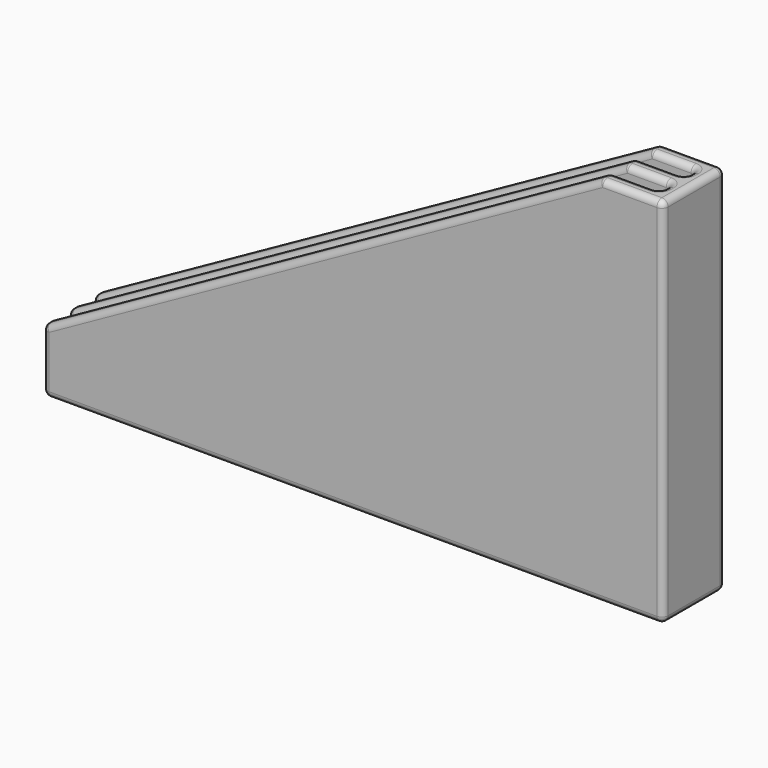
from build123d import *

# Parameters (mm, degrees)
SKETCH_W      = 100
SKETCH_H      = 12.5
PAD_DEPTH     = 60
SKETCH001_W   = 97.5
SKETCH001_H   = 2.5
POCKET_DEPTH  = 57.5
CHAMFER_SIZE2 = 90
CHAMFER_SIZE  = 50
FILLET_R      = 1


with BuildPart() as part:
    # Sketch (on XY_Plane of Origin) → Pad (new body)
    with BuildSketch(Plane.XY):
        Rectangle(SKETCH_W, SKETCH_H)
    extrude(amount=PAD_DEPTH)

    # Sketch001 (on Face6 of Pad) → Pocket (cut)
    with BuildSketch(Plane.XY.offset(60)):
        with Locations((-1.25, 2.5)):
            Rectangle(SKETCH001_W, SKETCH001_H)
        with Locations((-1.25, -2.5)):
            Rectangle(SKETCH001_W, SKETCH001_H)
    extrude(amount=-POCKET_DEPTH, mode=Mode.SUBTRACT)

    # Chamfer
    chamfer_edges = [part.edges().sort_by_distance(p)[0] for p in [
        (-50, 5, 60),
        (-50, 0, 60),
        (-50, -5, 60),
    ]]
    chamfer_side = part.faces().sort_by_distance((-50, 0, 29.222973))[0]
    chamfer(chamfer_edges, length=CHAMFER_SIZE, length2=CHAMFER_SIZE2, reference=chamfer_side)

    # Fillet
    fillet_edges = [part.edges().sort_by_distance(p)[0] for p in [
        (-50, -6.25, 5),
        (-50, -5, 10),
        (-50, 0, 0),
        (-50, -3.75, 6.25),
        (-50, 6.25, 5),
        (-50, -2.5, 2.5),
        (-50, 5, 10),
        (-50, -1.25, 6.25),
        (-50, 3.75, 6.25),
        (-50, 0, 10),
        (-50, 2.5, 2.5),
        (-50, 1.25, 6.25),
        (-5, -6.25, 35),
        (0, -6.25, 0),
        (45, -6.25, 60),
        (50, -6.25, 30),
        (-5, -3.75, 35),
        (40, -5, 60),
        (50, 0, 0),
        (0, 6.25, 0),
        (-1.25, -3.75, 2.5),
        (43.75, -3.75, 60),
        (47.5, -3.75, 31.25),
        (-5, 6.25, 35),
        (45, 6.25, 60),
        (50, 6.25, 30),
        (47.5, -2.5, 2.5),
        (-1.25, -1.25, 2.5),
        (40, 5, 60),
        (-5, 3.75, 35),
        (-5, -1.25, 35),
        (43.75, -1.25, 60),
        (47.5, -1.25, 31.25),
        (-1.25, 3.75, 2.5),
        (43.75, 3.75, 60),
        (47.5, 3.75, 31.25),
        (-5, 1.25, 35),
        (40, 0, 60),
        (-1.25, 1.25, 2.5),
        (47.5, 2.5, 2.5),
        (43.75, 1.25, 60),
        (47.5, 1.25, 31.25),
        (50, 0, 60),
        (47.5, 2.5, 60),
        (47.5, -2.5, 60),
    ]]
    fillet(fillet_edges, radius=FILLET_R)


solid = part.part
